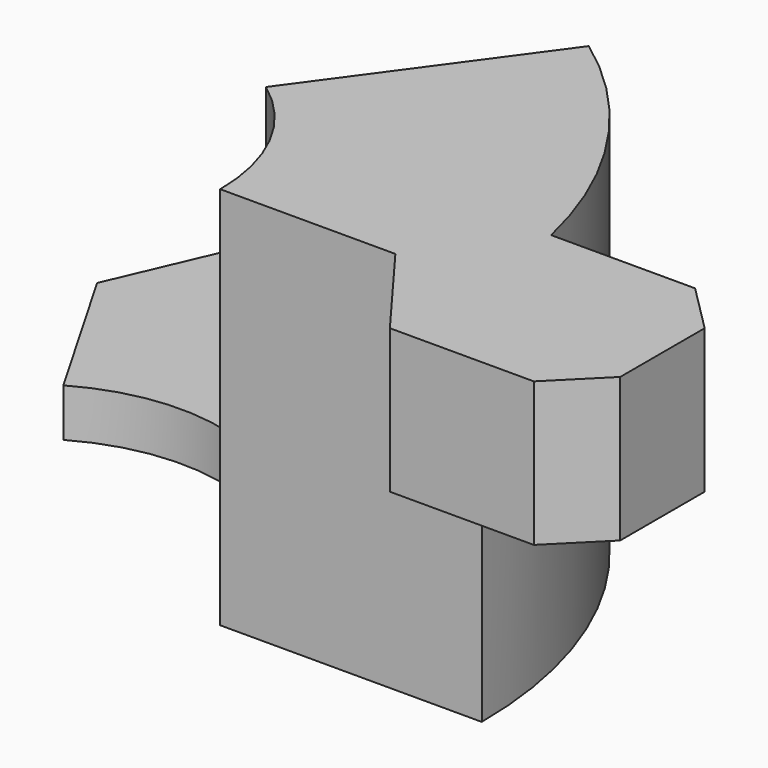
from build123d import *

# Parameters (mm, degrees)
EXTRUDE002_DEPTH           = 3
EXTRUDE002_PLACEMENT_ANGLE = 120
EXTRUDE001_DEPTH           = 3
CHAMFER_SIZE               = 1
CYLINDER001_R              = 4.05
CYLINDER001_DEPTH          = 10
CYLINDER002_W              = 9.5
CYLINDER002_H              = 8
CYLINDER002_ANGLE          = 54
CYLINDER_W                 = 9.5
CYLINDER_H                 = 1
CYLINDER_ANGLE             = 120


with BuildPart() as extrude002:
    # Sketch001 (on Face11 of Cut002) → Extrude002 (new body)
    with BuildSketch(Plane.XY.offset(8)):
        Polygon((13.2649878575, 2.1), (9.2649878575, 2.1), (7.7, 0), (9.2649878575, -2.1), (13.2649878575, -2.1), align=None)
    extrude(amount=-EXTRUDE002_DEPTH)


with BuildPart() as extrude002_1:
    # Extrude002 placement: moved
    add(extrude002.part.moved(Location((0, 0, -7))).rotate(Axis((0, 0, -7), (0, 0, 1)), EXTRUDE002_PLACEMENT_ANGLE))


with BuildPart() as chamfer_body:
    # Sketch001 (on Face11 of Cut002) → Extrude001 (new body)
    with BuildSketch(Plane.XY.offset(8)):
        Polygon((13.2649878575, 2.1), (9.2649878575, 2.1), (7.7, 0), (9.2649878575, -2.1), (13.2649878575, -2.1), align=None)
    extrude(amount=-EXTRUDE001_DEPTH)

    # Chamfer
    chamfer_edges = [chamfer_body.edges().sort_by_distance(p)[0] for p in [
        (13.264988, 2.1, 6.5),
        (13.264988, -2.1, 6.5),
    ]]
    chamfer(chamfer_edges, length=CHAMFER_SIZE)


with BuildPart() as cylinder001:
    # Cylinder001 → Cylinder001 (new body)
    with BuildSketch(Plane.XY):
        Circle(CYLINDER001_R)
    extrude(amount=CYLINDER001_DEPTH)


with BuildPart() as cylinder002:
    # Cylinder002 → Cylinder002 (revolve)
    with BuildSketch(Plane.XZ):
        with Locations((4.75, 4)):
            Rectangle(CYLINDER002_W, CYLINDER002_H)
    revolve(axis=Axis((0, 0, 0), (0, 0, 1)), revolution_arc=CYLINDER002_ANGLE)


with BuildPart() as cut003:
    # Cylinder → Cylinder (revolve)
    with BuildSketch(Plane.XZ):
        with Locations((4.75, 0.5)):
            Rectangle(CYLINDER_W, CYLINDER_H)
    revolve(axis=Axis((0, 0, 0), (0, 0, 1)), revolution_arc=CYLINDER_ANGLE)

    # Fusion: union Cylinder002
    add(cylinder002.part)

    # Cut002: cut Cylinder001
    add(cylinder001.part, mode=Mode.SUBTRACT)

    # Fusion001: union Chamfer body
    add(chamfer_body.part)

    # Cut003: cut Extrude002
    add(extrude002_1.part, mode=Mode.SUBTRACT)


solid = cut003.part
